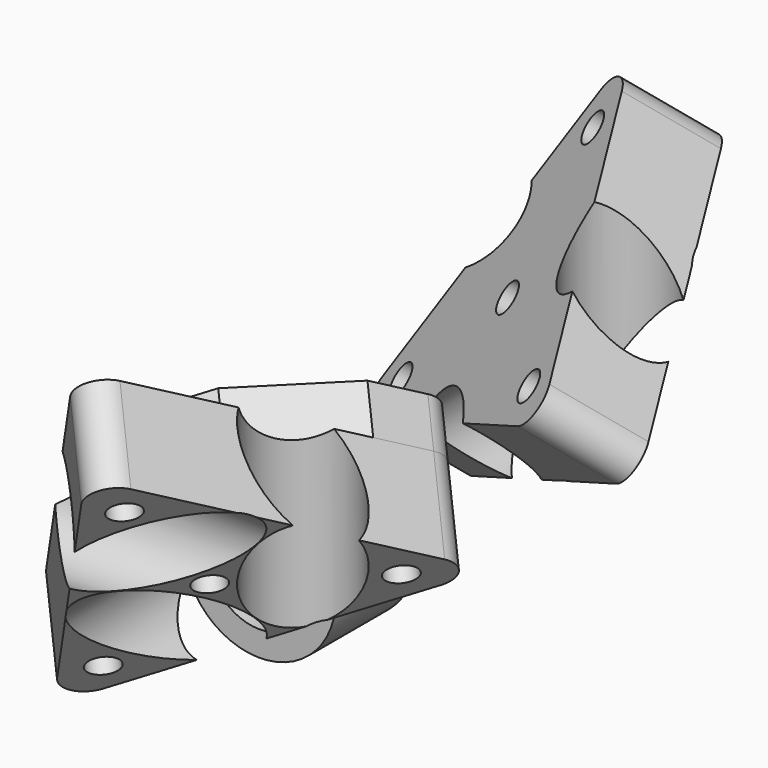
from build123d import *

# Parameters (mm, degrees)
F0_R      = 10.25
F1_DEPTH  = 100
F2_R      = 10.25
F3_DEPTH  = 100
F4_R      = 10.2
F5_DEPTH  = 100
F7_R      = 0.5
F8_DEPTH  = 5
F9_R      = 0.5
F10_DEPTH = 5
F11_R     = 0.5
F12_DEPTH = 5
F13_R     = 3.05
F14_DEPTH = 20
F16_R     = 5
F17_DEPTH = 1
F21_R     = 15.2
F22_DEPTH = 20
F26_R     = 4.25
F27_DEPTH = 50
F24_R     = 3.05
F28_DEPTH = 10


with BuildPart() as f1:
    # F0 (on Top) → F1 (new body, symmetric)
    with BuildSketch(Plane.XY):
        with Locations((10.25, 10.25)):
            Circle(F0_R)
    extrude(amount=F1_DEPTH, both=True)



with BuildPart() as f3:
    # F2 (on Right) → F3 (new body, symmetric)
    with BuildSketch(Plane.YZ):
        with Locations((-10.25, 10.25)):
            Circle(F2_R)
    extrude(amount=F3_DEPTH, both=True)



with BuildPart() as f5:
    # F4 (on Front) → F5 (new body, symmetric)
    with BuildSketch(Plane.XZ):
        with Locations((-10.2, -10.2)):
            Circle(F4_R)
    extrude(amount=F5_DEPTH, both=True)


with BuildPart() as f3_1:
    add(f3.part)

    add(f5.part)  # F8 merges F5
    # F7 (on Top) → F8 (join, symmetric)
    with BuildSketch(Plane.XY):
        with Locations((-10.2, -10.25)):
            Circle(F7_R)
    extrude(amount=F8_DEPTH, both=True)


with BuildPart() as f1_1:
    add(f1.part)

    add(f3_1.part)  # F10 merges F3
    # F9 (on Right) → F10 (join, symmetric)
    with BuildSketch(Plane.YZ):
        with Locations((10.25, -10.2)):
            Circle(F9_R)
    extrude(amount=F10_DEPTH, both=True)

    # F11 (on Front) → F12 (join, symmetric)
    with BuildSketch(Plane.XZ):
        with Locations((10.25, 10.25)):
            Circle(F11_R)
    extrude(amount=F12_DEPTH, both=True)


with BuildPart() as f14:
    # F13 (on 3pt) → F14 (new body)
    with BuildSketch(Plane(origin=(0, 0, 0), x_dir=(-0.8164965809, -0.4082482905, -0.4082482905), z_dir=(-0.5773502692, 0.5773502692, 0.5773502692))):
        Polygon((38.1051177665, -22), (0, 44), (-38.1051177665, -22), align=None)
        with Locations((-25.9807621135, -15)):
            Circle(F13_R, mode=Mode.SUBTRACT)
        with Locations((25.9807621135, -15)):
            Circle(F13_R, mode=Mode.SUBTRACT)
        Circle(F13_R, mode=Mode.SUBTRACT)
        with Locations((0, 30)):
            Circle(F13_R, mode=Mode.SUBTRACT)
    extrude(amount=F14_DEPTH)

    # F15: cut F1
    add(f1_1.part, mode=Mode.SUBTRACT)

    # F16
    f16_edges = [f14.edges().sort_by_distance(p)[0] for p in [
        (-5.773503, -25.339196, 36.886201),
        (-36.886201, 5.773503, -25.339196),
        (25.339196, 36.886201, 5.773503),
    ]]
    fillet(f16_edges, radius=F16_R)

    # F13 (on 3pt) → F17 (cut)
    with BuildSketch(Plane(origin=(0, 0, 0), x_dir=(-0.8164965809, -0.4082482905, -0.4082482905), z_dir=(-0.5773502692, 0.5773502692, 0.5773502692))):
        Polygon((38.1051177665, -22), (0, 44), (-38.1051177665, -22), align=None)
        with Locations((-25.9807621135, -15)):
            Circle(F13_R, mode=Mode.SUBTRACT)
        with Locations((25.9807621135, -15)):
            Circle(F13_R, mode=Mode.SUBTRACT)
        Circle(F13_R, mode=Mode.SUBTRACT)
        with Locations((0, 30)):
            Circle(F13_R, mode=Mode.SUBTRACT)
    extrude(amount=F17_DEPTH, mode=Mode.SUBTRACT)


with BuildPart() as f18_1:
    # F18: instance of F14
    add(f14.part.mirror(Plane.XZ))


with BuildPart() as f18_1_1:
    # F19: moved
    add(f18_1.part.moved(Location((0, 100, 0))))


with BuildPart() as f22:
    # F21 (on offset) → F22 (new body)
    with BuildSketch(Plane.XZ.offset(-25)):
        with Locations((-10.2, -10.2)):
            Circle(F21_R)
        with BuildLine():
            ThreePointArc((-20.2310823189, -8.3513822698), (-14.7615786741, -1.0768426518), (-5.6602447928, -1.0659635068))
            ThreePointArc((-5.6602447928, -1.0659635068), (-5.6384213259, -19.3231573482), (-20.2310823189, -8.3513822698))
        make_face(mode=Mode.SUBTRACT)
    extrude(amount=-F22_DEPTH)

    # F23: cut F14
    add(f14.part, mode=Mode.SUBTRACT)


with BuildPart() as f27:
    # F26 (on plane+point) → F27 (new body, symmetric)
    with BuildSketch(Plane.XZ.offset(-22.1536071016)):
        with Locations((-5, 16.5470053838)):
            Circle(F26_R)
    extrude(amount=F27_DEPTH, both=True)


with BuildPart() as f28:
    # F24 (on face) → F28 (new body)
    with BuildSketch(Plane(origin=(-11.5470053838, 11.5470053838, 11.5470053838), x_dir=(-0.8164965809, -0.4082482905, -0.4082482905), z_dir=(-0.5773502692, 0.5773502692, 0.5773502692))):
        with BuildLine():
            Line((-29.4448637287, -22), (-18.1051177665, -22))
            Line((-18.1051177665, -22), (2.124355653, -10.3205080757))
            Line((2.124355653, -10.3205080757), (7.7942286341, -0.5))
            ThreePointArc((7.7942286341, -0.5), (7.7942286341, 4.5), (3.4641016151, 7))
            Line((3.4641016151, 7), (-7.875644347, 7))
            Line((-7.875644347, 7), (-28.1051177665, -4.6794919243))
            Line((-28.1051177665, -4.6794919243), (-33.7749907476, -14.5))
            ThreePointArc((-33.7749907476, -14.5), (-33.7749907476, -19.5), (-29.4448637287, -22))
        make_face()
        with Locations((-25.9807621135, -15)):
            Circle(F24_R, mode=Mode.SUBTRACT)
        Circle(F24_R, mode=Mode.SUBTRACT)
    extrude(amount=F28_DEPTH)

    # F29: cut F27
    add(f27.part, mode=Mode.SUBTRACT)


solid = Compound([f14.part, f18_1_1.part, f22.part, f28.part])
